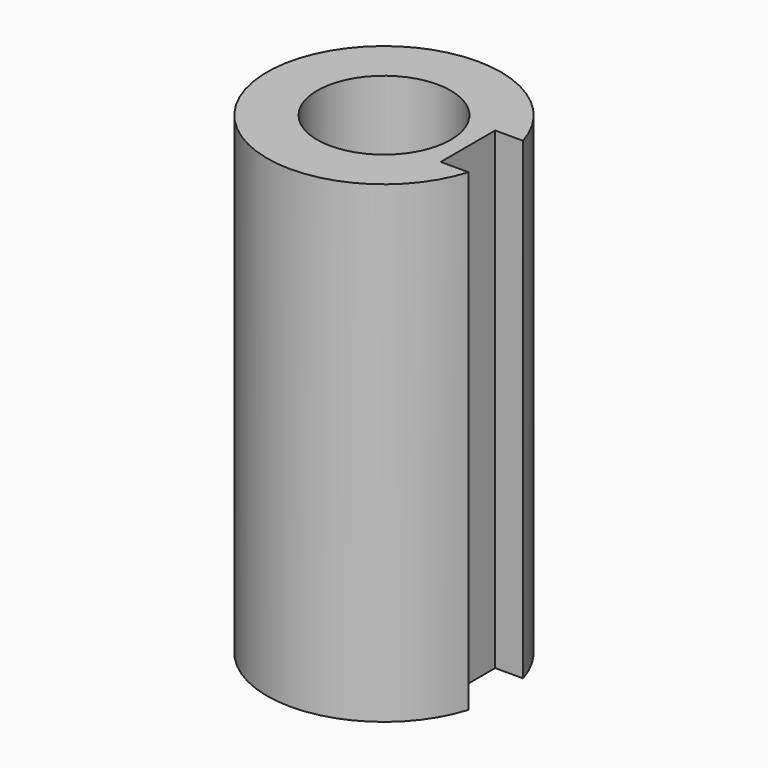
from build123d import *

# Parameters (mm, degrees)
F0_R     = 25.095592
F0_R_2   = 14.330482
F1_DEPTH = 50.8
F2_W     = 14.96103
F2_H     = 14.620998
F3_DEPTH = 50.8


with BuildPart() as f1:
    # F0 (on Top) → F1 (new body, symmetric)
    with BuildSketch(Plane.XY):
        Circle(F0_R)
        Circle(F0_R_2, mode=Mode.SUBTRACT)
    extrude(amount=F1_DEPTH, both=True)

    # F2 (on Top) → F3 (cut, symmetric)
    with BuildSketch(Plane.XY):
        with Locations((25.50176, 0)):
            Rectangle(F2_W, F2_H)
    extrude(amount=F3_DEPTH, both=True, mode=Mode.SUBTRACT)


solid = f1.part
